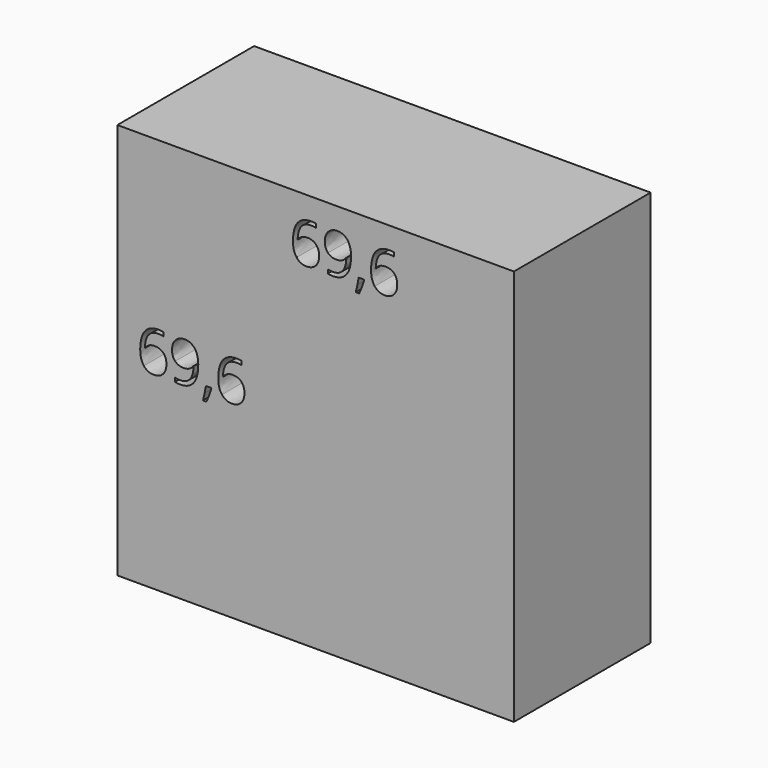
from build123d import *

# Parameters (mm, degrees)
F0_W     = 69.6
F0_H     = 69.6
F1_DEPTH = 30


with BuildPart() as f1:
    # F0 (on Front) → F1 (new body)
    with BuildSketch(Plane.XZ):
        with Locations((-14.9644720137, -5.4907868385)):
            Rectangle(F0_W, F0_H)
        with BuildLine():
            Line((-34.2257294541, -5.9580590363), (-33.3483651705, -5.9580590363))
            Line((-33.3483651705, -5.9580590363), (-33.2758939556, -6.0690787698))
            add(Edge.make_bspline(
                [(-33.2758939556, -6.0690787698), (-33.4023330966, -6.5517062228), (-33.6382500305, -7.190069691)],
                knots=[0, 0, 0, 1, 1, 1], degree=2))
            add(Edge.make_bspline(
                [(-33.6382500305, -7.190069691), (-33.8741669644, -7.8284331592), (-34.1285871872, -8.3773640642)],
                knots=[0, 0, 0, 1, 1, 1], degree=2))
            Line((-34.1285871872, -8.3773640642), (-34.7314860182, -8.3773640642))
            add(Edge.make_bspline(
                [(-34.7314860182, -8.3773640642), (-34.6019629957, -7.8762333222), (-34.4454560102, -7.1391856464)],
                knots=[0, 0, 0, 1, 1, 1], degree=2))
            add(Edge.make_bspline(
                [(-34.4454560102, -7.1391856464), (-34.2889490246, -6.4021379706), (-34.2257294541, -5.9580590363)],
                knots=[0, 0, 0, 1, 1, 1], degree=2))
        make_face(mode=Mode.SUBTRACT)
        with BuildLine():
            add(Edge.make_bspline(
                [(-45.1141440205, -6.3805508002), (-45.7548203998, -5.5586963835), (-45.7548203998, -4.0938526763)],
                knots=[0, 0, 0, 1, 1, 1], degree=2))
            add(Edge.make_bspline(
                [(-45.7548203998, -4.0938526763), (-45.7548203998, -2.0168584936), (-44.9476144201, -0.9883840171)],
                knots=[0, 0, 0, 1, 1, 1], degree=2))
            add(Edge.make_bspline(
                [(-44.9476144201, -0.9883840171), (-44.1404084404, 0.0400904594), (-42.5599191774, 0.0400904594)],
                knots=[0, 0, 0, 1, 1, 1], degree=2))
            add(Edge.make_bspline(
                [(-42.5599191774, 0.0400904594), (-42.0156140947, 0.0400904594), (-41.7026001235, -0.0508840446)],
                knots=[0, 0, 0, 1, 1, 1], degree=2))
            Line((-41.7026001235, -0.0508840446), (-41.7026001235, -0.7401315573))
            add(Edge.make_bspline(
                [(-41.7026001235, -0.7401315573), (-42.0742078429, -0.6198601792), (-42.550667533, -0.6198601792)],
                knots=[0, 0, 0, 1, 1, 1], degree=2))
            add(Edge.make_bspline(
                [(-42.550667533, -0.6198601792), (-43.6839939801, -0.6198601792), (-44.2814960185, -1.3252980698)],
                knots=[0, 0, 0, 1, 1, 1], degree=2))
            add(Edge.make_bspline(
                [(-44.2814960185, -1.3252980698), (-44.878998057, -2.0307359603), (-44.9360498645, -3.5449217713)],
                knots=[0, 0, 0, 1, 1, 1], degree=2))
            Line((-44.9360498645, -3.5449217713), (-44.878998057, -3.5449217713))
            add(Edge.make_bspline(
                [(-44.878998057, -3.5449217713), (-44.3485704409, -2.7153576508), (-43.2013665271, -2.7153576508)],
                knots=[0, 0, 0, 1, 1, 1], degree=2))
            add(Edge.make_bspline(
                [(-43.2013665271, -2.7153576508), (-42.2515310285, -2.7153576508), (-41.7049130347, -3.2889596077)],
                knots=[0, 0, 0, 1, 1, 1], degree=2))
            add(Edge.make_bspline(
                [(-41.7049130347, -3.2889596077), (-41.1582950408, -3.8625615646), (-41.1582950408, -4.8447778188)],
                knots=[0, 0, 0, 1, 1, 1], degree=2))
            add(Edge.make_bspline(
                [(-41.1582950408, -4.8447778188), (-41.1582950408, -5.9441815696), (-41.7581099903, -6.5732933933)],
                knots=[0, 0, 0, 1, 1, 1], degree=2))
            add(Edge.make_bspline(
                [(-41.7581099903, -6.5732933933), (-42.3579249399, -7.202405217), (-43.3802316534, -7.202405217)],
                knots=[0, 0, 0, 1, 1, 1], degree=2))
            add(Edge.make_bspline(
                [(-43.3802316534, -7.202405217), (-44.4734676412, -7.202405217), (-45.1141440205, -6.3805508002)],
                knots=[0, 0, 0, 1, 1, 1], degree=2))
        make_face(mode=Mode.SUBTRACT)
        with BuildLine():
            add(Edge.make_bspline(
                [(-35.8532479098, -1.402395107), (-35.5641340202, -2.1078329976), (-35.5641340202, -3.0669201406)],
                knots=[0, 0, 0, 1, 1, 1], degree=2))
            add(Edge.make_bspline(
                [(-35.5641340202, -3.0669201406), (-35.5641340202, -7.202405217), (-38.7636610648, -7.202405217)],
                knots=[0, 0, 0, 1, 1, 1], degree=2))
            add(Edge.make_bspline(
                [(-38.7636610648, -7.202405217), (-39.323385555, -7.202405217), (-39.6502769928, -7.1052629501)],
                knots=[0, 0, 0, 1, 1, 1], degree=2))
            Line((-39.6502769928, -7.1052629501), (-39.6502769928, -6.4160154373))
            add(Edge.make_bspline(
                [(-39.6502769928, -6.4160154373), (-39.2647918067, -6.5409126376), (-38.77445465, -6.5409126376)],
                knots=[0, 0, 0, 1, 1, 1], degree=2))
            add(Edge.make_bspline(
                [(-38.77445465, -6.5409126376), (-37.6179990917, -6.5409126376), (-37.0274357866, -5.8254521322)],
                knots=[0, 0, 0, 1, 1, 1], degree=2))
            add(Edge.make_bspline(
                [(-37.0274357866, -5.8254521322), (-36.4368724815, -5.1099916268), (-36.3844464962, -3.631270453)],
                knots=[0, 0, 0, 1, 1, 1], degree=2))
            Line((-36.3844464962, -3.631270453), (-36.4414983038, -3.631270453))
            add(Edge.make_bspline(
                [(-36.4414983038, -3.631270453), (-36.7067121118, -4.0306331058), (-37.1453942536, -4.240337047)],
                knots=[0, 0, 0, 1, 1, 1], degree=2))
            add(Edge.make_bspline(
                [(-37.1453942536, -4.240337047), (-37.5840763953, -4.4500409883), (-38.1330073003, -4.4500409883)],
                knots=[0, 0, 0, 1, 1, 1], degree=2))
            add(Edge.make_bspline(
                [(-38.1330073003, -4.4500409883), (-39.0674233914, -4.4500409883), (-39.6171252668, -3.8910874684)],
                knots=[0, 0, 0, 1, 1, 1], degree=2))
            add(Edge.make_bspline(
                [(-39.6171252668, -3.8910874684), (-40.1668271422, -3.3321339486), (-40.1668271422, -2.3298724647)],
                knots=[0, 0, 0, 1, 1, 1], degree=2))
            add(Edge.make_bspline(
                [(-40.1668271422, -2.3298724647), (-40.1668271422, -1.2320106548), (-39.5523637555, -0.5959600977)],
                knots=[0, 0, 0, 1, 1, 1], degree=2))
            add(Edge.make_bspline(
                [(-39.5523637555, -0.5959600977), (-38.9379003689, 0.0400904594), (-37.935638885, 0.0400904594)],
                knots=[0, 0, 0, 1, 1, 1], degree=2))
            add(Edge.make_bspline(
                [(-37.935638885, 0.0400904594), (-37.2170944982, 0.0400904594), (-36.6797281488, -0.3284333786)],
                knots=[0, 0, 0, 1, 1, 1], degree=2))
            add(Edge.make_bspline(
                [(-36.6797281488, -0.3284333786), (-36.1423617993, -0.6969572165), (-35.8532479098, -1.402395107)],
                knots=[0, 0, 0, 1, 1, 1], degree=2))
        make_face(mode=Mode.SUBTRACT)
        with BuildLine():
            add(Edge.make_bspline(
                [(-31.4109166252, -6.3805508002), (-32.0515930045, -5.5586963835), (-32.0515930045, -4.0938526763)],
                knots=[0, 0, 0, 1, 1, 1], degree=2))
            add(Edge.make_bspline(
                [(-32.0515930045, -4.0938526763), (-32.0515930045, -2.0168584936), (-31.2443870249, -0.9883840171)],
                knots=[0, 0, 0, 1, 1, 1], degree=2))
            add(Edge.make_bspline(
                [(-31.2443870249, -0.9883840171), (-30.4371810452, 0.0400904594), (-28.8566917822, 0.0400904594)],
                knots=[0, 0, 0, 1, 1, 1], degree=2))
            add(Edge.make_bspline(
                [(-28.8566917822, 0.0400904594), (-28.3123866994, 0.0400904594), (-27.9993727283, -0.0508840446)],
                knots=[0, 0, 0, 1, 1, 1], degree=2))
            Line((-27.9993727283, -0.0508840446), (-27.9993727283, -0.7401315573))
            add(Edge.make_bspline(
                [(-27.9993727283, -0.7401315573), (-28.3709804477, -0.6198601792), (-28.8474401377, -0.6198601792)],
                knots=[0, 0, 0, 1, 1, 1], degree=2))
            add(Edge.make_bspline(
                [(-28.8474401377, -0.6198601792), (-29.9807665848, -0.6198601792), (-30.5782686233, -1.3252980698)],
                knots=[0, 0, 0, 1, 1, 1], degree=2))
            add(Edge.make_bspline(
                [(-30.5782686233, -1.3252980698), (-31.1757706617, -2.0307359603), (-31.2328224693, -3.5449217713)],
                knots=[0, 0, 0, 1, 1, 1], degree=2))
            Line((-31.2328224693, -3.5449217713), (-31.1757706617, -3.5449217713))
            add(Edge.make_bspline(
                [(-31.1757706617, -3.5449217713), (-30.6453430457, -2.7153576508), (-29.4981391318, -2.7153576508)],
                knots=[0, 0, 0, 1, 1, 1], degree=2))
            add(Edge.make_bspline(
                [(-29.4981391318, -2.7153576508), (-28.5483036333, -2.7153576508), (-28.0016856394, -3.2889596077)],
                knots=[0, 0, 0, 1, 1, 1], degree=2))
            add(Edge.make_bspline(
                [(-28.0016856394, -3.2889596077), (-27.4550676456, -3.8625615646), (-27.4550676456, -4.8447778188)],
                knots=[0, 0, 0, 1, 1, 1], degree=2))
            add(Edge.make_bspline(
                [(-27.4550676456, -4.8447778188), (-27.4550676456, -5.9441815696), (-28.0548825951, -6.5732933933)],
                knots=[0, 0, 0, 1, 1, 1], degree=2))
            add(Edge.make_bspline(
                [(-28.0548825951, -6.5732933933), (-28.6546975447, -7.202405217), (-29.6770042582, -7.202405217)],
                knots=[0, 0, 0, 1, 1, 1], degree=2))
            add(Edge.make_bspline(
                [(-29.6770042582, -7.202405217), (-30.770240246, -7.202405217), (-31.4109166252, -6.3805508002)],
                knots=[0, 0, 0, 1, 1, 1], degree=2))
        make_face(mode=Mode.SUBTRACT)
        with BuildLine():
            add(Edge.make_bspline(
                [(-18.2989817838, 19.079975547), (-18.9396581631, 19.9018299637), (-18.9396581631, 21.3666736709)],
                knots=[0, 0, 0, 1, 1, 1], degree=2))
            add(Edge.make_bspline(
                [(-18.9396581631, 21.3666736709), (-18.9396581631, 23.4436678535), (-18.1324521834, 24.47214233)],
                knots=[0, 0, 0, 1, 1, 1], degree=2))
            add(Edge.make_bspline(
                [(-18.1324521834, 24.47214233), (-17.3252462038, 25.5006168065), (-15.7447569408, 25.5006168065)],
                knots=[0, 0, 0, 1, 1, 1], degree=2))
            add(Edge.make_bspline(
                [(-15.7447569408, 25.5006168065), (-15.200451858, 25.5006168065), (-14.8874378869, 25.4096423026)],
                knots=[0, 0, 0, 1, 1, 1], degree=2))
            Line((-14.8874378869, 25.4096423026), (-14.8874378869, 24.7203947899))
            add(Edge.make_bspline(
                [(-14.8874378869, 24.7203947899), (-15.2590456063, 24.8406661679), (-15.7355052963, 24.8406661679)],
                knots=[0, 0, 0, 1, 1, 1], degree=2))
            add(Edge.make_bspline(
                [(-15.7355052963, 24.8406661679), (-16.8688317434, 24.8406661679), (-17.4663337819, 24.1352282774)],
                knots=[0, 0, 0, 1, 1, 1], degree=2))
            add(Edge.make_bspline(
                [(-17.4663337819, 24.1352282774), (-18.0638358203, 23.4297903868), (-18.1208876279, 21.9156045759)],
                knots=[0, 0, 0, 1, 1, 1], degree=2))
            Line((-18.1208876279, 21.9156045759), (-18.0638358203, 21.9156045759))
            add(Edge.make_bspline(
                [(-18.0638358203, 21.9156045759), (-17.5334082042, 22.7451686963), (-16.3862042904, 22.7451686963)],
                knots=[0, 0, 0, 1, 1, 1], degree=2))
            add(Edge.make_bspline(
                [(-16.3862042904, 22.7451686963), (-15.4363687919, 22.7451686963), (-14.889750798, 22.1715667394)],
                knots=[0, 0, 0, 1, 1, 1], degree=2))
            add(Edge.make_bspline(
                [(-14.889750798, 22.1715667394), (-14.3431328041, 21.5979647825), (-14.3431328041, 20.6157485283)],
                knots=[0, 0, 0, 1, 1, 1], degree=2))
            add(Edge.make_bspline(
                [(-14.3431328041, 20.6157485283), (-14.3431328041, 19.5163447776), (-14.9429477537, 18.8872329539)],
                knots=[0, 0, 0, 1, 1, 1], degree=2))
            add(Edge.make_bspline(
                [(-14.9429477537, 18.8872329539), (-15.5427627033, 18.2581211302), (-16.5650694168, 18.2581211302)],
                knots=[0, 0, 0, 1, 1, 1], degree=2))
            add(Edge.make_bspline(
                [(-16.5650694168, 18.2581211302), (-17.6583054045, 18.2581211302), (-18.2989817838, 19.079975547)],
                knots=[0, 0, 0, 1, 1, 1], degree=2))
        make_face(mode=Mode.SUBTRACT)
        with BuildLine():
            Line((-7.4105672174, 19.5024673109), (-6.5332029339, 19.5024673109))
            Line((-6.5332029339, 19.5024673109), (-6.4607317189, 19.3914475773))
            add(Edge.make_bspline(
                [(-6.4607317189, 19.3914475773), (-6.58717086, 18.9088201243), (-6.8230877938, 18.2704566562)],
                knots=[0, 0, 0, 1, 1, 1], degree=2))
            add(Edge.make_bspline(
                [(-6.8230877938, 18.2704566562), (-7.0590047277, 17.632093188), (-7.3134249506, 17.083162283)],
                knots=[0, 0, 0, 1, 1, 1], degree=2))
            Line((-7.3134249506, 17.083162283), (-7.9163237816, 17.083162283))
            add(Edge.make_bspline(
                [(-7.9163237816, 17.083162283), (-7.7868007591, 17.5842930249), (-7.6302937735, 18.3213407007)],
                knots=[0, 0, 0, 1, 1, 1], degree=2))
            add(Edge.make_bspline(
                [(-7.6302937735, 18.3213407007), (-7.473786788, 19.0583883765), (-7.4105672174, 19.5024673109)],
                knots=[0, 0, 0, 1, 1, 1], degree=2))
        make_face(mode=Mode.SUBTRACT)
        with BuildLine():
            add(Edge.make_bspline(
                [(-9.0380856731, 24.0581312402), (-8.7489717836, 23.3526933496), (-8.7489717836, 22.3936062066)],
                knots=[0, 0, 0, 1, 1, 1], degree=2))
            add(Edge.make_bspline(
                [(-8.7489717836, 22.3936062066), (-8.7489717836, 18.2581211302), (-11.9484988281, 18.2581211302)],
                knots=[0, 0, 0, 1, 1, 1], degree=2))
            add(Edge.make_bspline(
                [(-11.9484988281, 18.2581211302), (-12.5082233183, 18.2581211302), (-12.8351147561, 18.3552633971)],
                knots=[0, 0, 0, 1, 1, 1], degree=2))
            Line((-12.8351147561, 18.3552633971), (-12.8351147561, 19.0445109098))
            add(Edge.make_bspline(
                [(-12.8351147561, 19.0445109098), (-12.4496295701, 18.9196137095), (-11.9592924133, 18.9196137095)],
                knots=[0, 0, 0, 1, 1, 1], degree=2))
            add(Edge.make_bspline(
                [(-11.9592924133, 18.9196137095), (-10.8028368551, 18.9196137095), (-10.21227355, 19.6350742149)],
                knots=[0, 0, 0, 1, 1, 1], degree=2))
            add(Edge.make_bspline(
                [(-10.21227355, 19.6350742149), (-9.6217102449, 20.3505347203), (-9.5692842596, 21.8292558942)],
                knots=[0, 0, 0, 1, 1, 1], degree=2))
            Line((-9.5692842596, 21.8292558942), (-9.6263360671, 21.8292558942))
            add(Edge.make_bspline(
                [(-9.6263360671, 21.8292558942), (-9.8915498751, 21.4298932414), (-10.3302320169, 21.2201893001)],
                knots=[0, 0, 0, 1, 1, 1], degree=2))
            add(Edge.make_bspline(
                [(-10.3302320169, 21.2201893001), (-10.7689141587, 21.0104853589), (-11.3178450637, 21.0104853589)],
                knots=[0, 0, 0, 1, 1, 1], degree=2))
            add(Edge.make_bspline(
                [(-11.3178450637, 21.0104853589), (-12.2522611548, 21.0104853589), (-12.8019630301, 21.5694388787)],
                knots=[0, 0, 0, 1, 1, 1], degree=2))
            add(Edge.make_bspline(
                [(-12.8019630301, 21.5694388787), (-13.3516649055, 22.1283923986), (-13.3516649055, 23.1306538824)],
                knots=[0, 0, 0, 1, 1, 1], degree=2))
            add(Edge.make_bspline(
                [(-13.3516649055, 23.1306538824), (-13.3516649055, 24.2285156924), (-12.7372015189, 24.8645662495)],
                knots=[0, 0, 0, 1, 1, 1], degree=2))
            add(Edge.make_bspline(
                [(-12.7372015189, 24.8645662495), (-12.1227381322, 25.5006168065), (-11.1204766484, 25.5006168065)],
                knots=[0, 0, 0, 1, 1, 1], degree=2))
            add(Edge.make_bspline(
                [(-11.1204766484, 25.5006168065), (-10.4019322615, 25.5006168065), (-9.8645659121, 25.1320929686)],
                knots=[0, 0, 0, 1, 1, 1], degree=2))
            add(Edge.make_bspline(
                [(-9.8645659121, 25.1320929686), (-9.3271995627, 24.7635691307), (-9.0380856731, 24.0581312402)],
                knots=[0, 0, 0, 1, 1, 1], degree=2))
        make_face(mode=Mode.SUBTRACT)
        with BuildLine():
            add(Edge.make_bspline(
                [(-4.5957543886, 19.079975547), (-5.2364307679, 19.9018299637), (-5.2364307679, 21.3666736709)],
                knots=[0, 0, 0, 1, 1, 1], degree=2))
            add(Edge.make_bspline(
                [(-5.2364307679, 21.3666736709), (-5.2364307679, 23.4436678535), (-4.4292247882, 24.47214233)],
                knots=[0, 0, 0, 1, 1, 1], degree=2))
            add(Edge.make_bspline(
                [(-4.4292247882, 24.47214233), (-3.6220188085, 25.5006168065), (-2.0415295455, 25.5006168065)],
                knots=[0, 0, 0, 1, 1, 1], degree=2))
            add(Edge.make_bspline(
                [(-2.0415295455, 25.5006168065), (-1.4972244628, 25.5006168065), (-1.1842104917, 25.4096423026)],
                knots=[0, 0, 0, 1, 1, 1], degree=2))
            Line((-1.1842104917, 25.4096423026), (-1.1842104917, 24.7203947899))
            add(Edge.make_bspline(
                [(-1.1842104917, 24.7203947899), (-1.5558182111, 24.8406661679), (-2.0322779011, 24.8406661679)],
                knots=[0, 0, 0, 1, 1, 1], degree=2))
            add(Edge.make_bspline(
                [(-2.0322779011, 24.8406661679), (-3.1656043482, 24.8406661679), (-3.7631063866, 24.1352282774)],
                knots=[0, 0, 0, 1, 1, 1], degree=2))
            add(Edge.make_bspline(
                [(-3.7631063866, 24.1352282774), (-4.3606084251, 23.4297903868), (-4.4176602326, 21.9156045759)],
                knots=[0, 0, 0, 1, 1, 1], degree=2))
            Line((-4.4176602326, 21.9156045759), (-4.3606084251, 21.9156045759))
            add(Edge.make_bspline(
                [(-4.3606084251, 21.9156045759), (-3.830180809, 22.7451686963), (-2.6829768952, 22.7451686963)],
                knots=[0, 0, 0, 1, 1, 1], degree=2))
            add(Edge.make_bspline(
                [(-2.6829768952, 22.7451686963), (-1.7331413967, 22.7451686963), (-1.1865234028, 22.1715667394)],
                knots=[0, 0, 0, 1, 1, 1], degree=2))
            add(Edge.make_bspline(
                [(-1.1865234028, 22.1715667394), (-0.6399054089, 21.5979647825), (-0.6399054089, 20.6157485283)],
                knots=[0, 0, 0, 1, 1, 1], degree=2))
            add(Edge.make_bspline(
                [(-0.6399054089, 20.6157485283), (-0.6399054089, 19.5163447776), (-1.2397203585, 18.8872329539)],
                knots=[0, 0, 0, 1, 1, 1], degree=2))
            add(Edge.make_bspline(
                [(-1.2397203585, 18.8872329539), (-1.839535308, 18.2581211302), (-2.8618420216, 18.2581211302)],
                knots=[0, 0, 0, 1, 1, 1], degree=2))
            add(Edge.make_bspline(
                [(-2.8618420216, 18.2581211302), (-3.9550780093, 18.2581211302), (-4.5957543886, 19.079975547)],
                knots=[0, 0, 0, 1, 1, 1], degree=2))
        make_face(mode=Mode.SUBTRACT)
    extrude(amount=F1_DEPTH)


solid = f1.part
